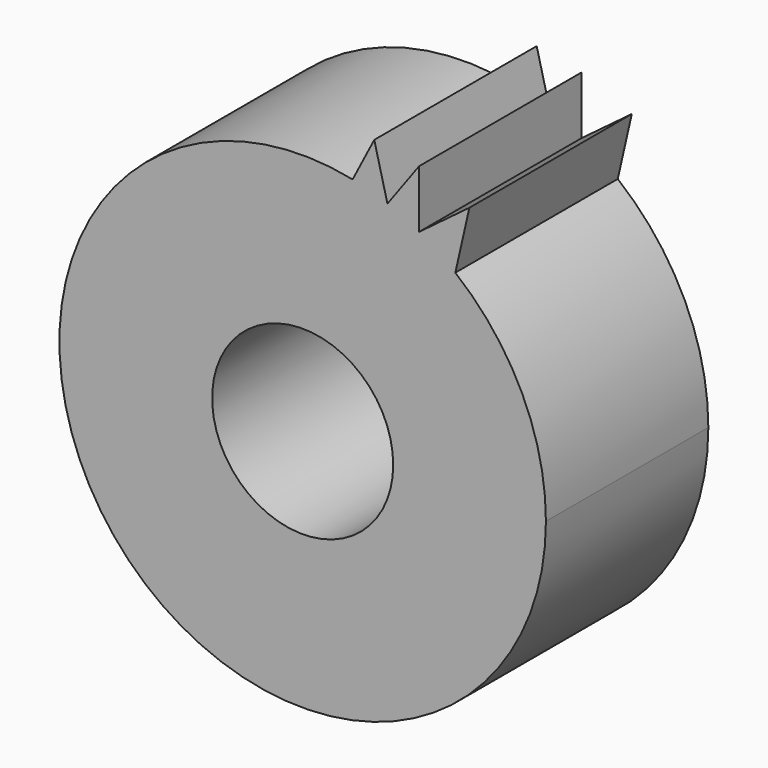
from build123d import *

# Parameters (mm, degrees)
F0_R     = 11.326139
F1_DEPTH = 25.4


with BuildPart() as f1:
    # F0 (on Front) → F1 (new body)
    with BuildSketch(Plane.XZ):
        with BuildLine():
            ThreePointArc((6.246856, 29.782926), (-23.623548, -19.182646), (30.431003, 0))
            ThreePointArc((30.431003, 0), (27.452284, 13.130805), (19.099267, 23.691009))
            ThreePointArc((19.099267, 23.691009), (16.903203, 25.304696), (14.571579, 26.715445))
            ThreePointArc((14.571579, 26.715445), (12.62019, 27.690734), (10.603943, 28.523715))
            ThreePointArc((10.603943, 28.523715), (8.448891, 29.234605), (6.246856, 29.782926))
        make_face()
        Circle(F0_R, mode=Mode.SUBTRACT)
        with BuildLine():
            ThreePointArc((14.571579, 26.715445), (16.903203, 25.304696), (19.099267, 23.691009))
            Line((19.099267, 23.691009), (20.854736, 31.41579))
            Line((20.854736, 31.41579), (14.571579, 26.715445))
        make_face()
        with BuildLine():
            Line((8.956843, 35.025265), (6.246856, 29.782926))
            ThreePointArc((6.246856, 29.782926), (8.448891, 29.234605), (10.603943, 28.523715))
            Line((10.603943, 28.523715), (8.956843, 35.025265))
        make_face()
        with BuildLine():
            ThreePointArc((10.603943, 28.523715), (12.62019, 27.690734), (14.571579, 26.715445))
            Line((14.571579, 26.715445), (14.571579, 33.95579))
            Line((14.571579, 33.95579), (10.603943, 28.523715))
        make_face()
    extrude(amount=F1_DEPTH)


solid = f1.part
